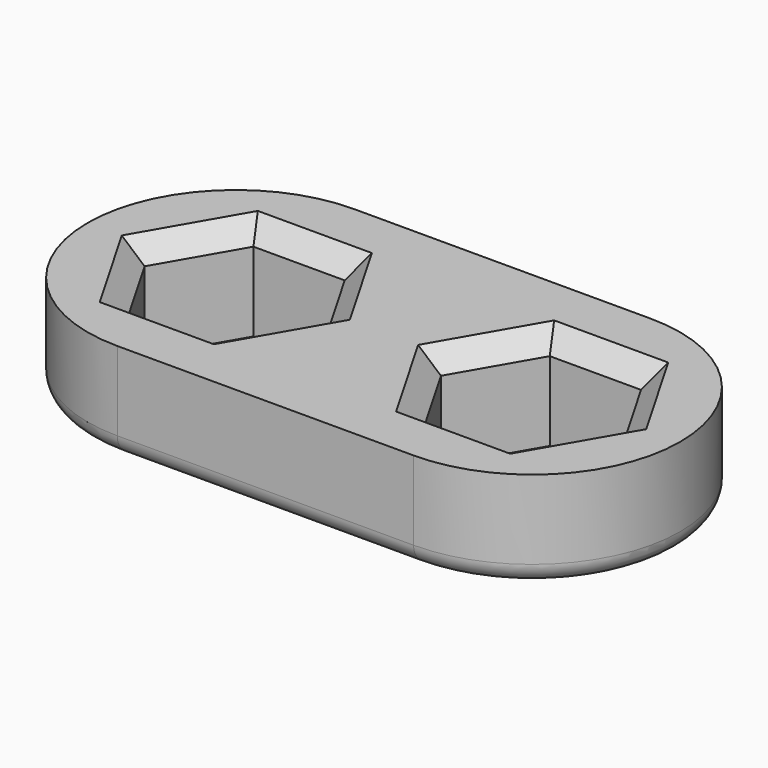
from build123d import *

# Parameters (mm, degrees)
PAD_DEPTH    = 5
CHAMFER_SIZE = 1
FILLET_R     = 1


with BuildPart() as part:
    # Sketch → Pad (new body)
    with BuildSketch(Plane.XY):
        with BuildLine():
            ThreePointArc((0, 7.5), (-7.5, 0), (0, -7.5))
            Line((0, -7.5), (15, -7.5))
            ThreePointArc((15, -7.5), (22.5, 0), (15, 7.5))
            Line((0, 7.5), (15, 7.5))
        make_face()
        Polygon((2.309401, 4), (-2.309401, 4), (-4.618802, 0), (-2.309401, -4), (2.309401, -4), (4.618802, 0), align=None, mode=Mode.SUBTRACT)
        Polygon((12.690599, 4), (10.381198, 0), (12.690599, -4), (17.309401, -4), (19.618802, 0), (17.309401, 4), align=None, mode=Mode.SUBTRACT)
    extrude(amount=PAD_DEPTH)

    # Chamfer
    chamfer_edges = [part.edges().sort_by_distance(p)[0] for p in [
        (11.535898, 2, 5),
        (15, 4, 5),
        (18.464102, 2, 5),
        (18.464102, -2, 5),
        (15, -4, 5),
        (11.535898, -2, 5),
        (3.464102, 2, 5),
        (0, 4, 5),
        (-3.464102, 2, 5),
        (-3.464102, -2, 5),
        (0, -4, 5),
        (3.464102, -2, 5),
    ]]
    chamfer(chamfer_edges, length=CHAMFER_SIZE)

    # Fillet
    fillet_edges = [part.edges().sort_by_distance(p)[0] for p in [
        (7.5, -7.5, 0),
    ]]
    fillet(fillet_edges, radius=FILLET_R)


solid = part.part
